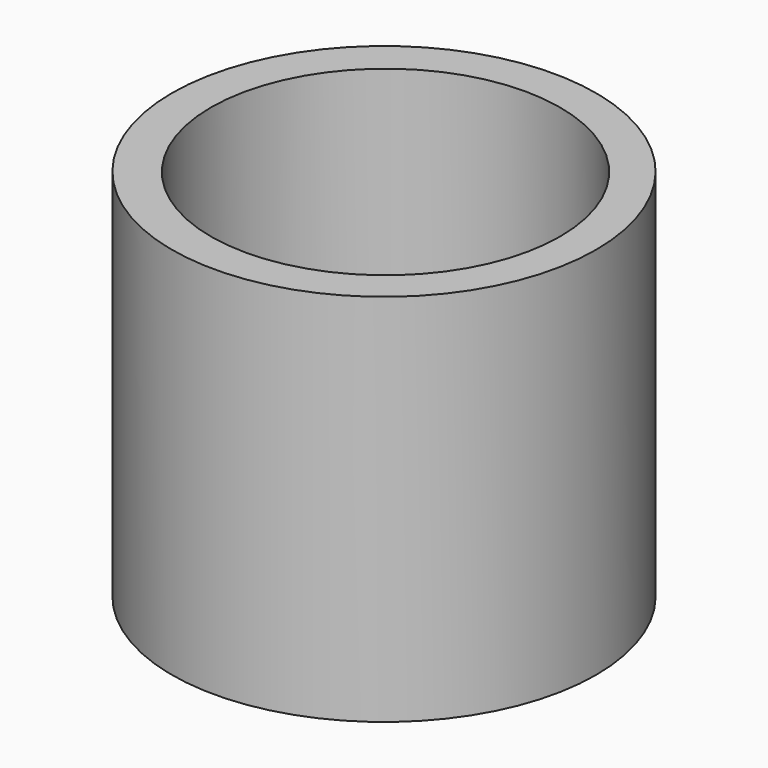
from build123d import *

# Parameters (mm, degrees)
SKETCH002_R  = 8.5
PAD001_DEPTH = 15
SKETCH003_R  = 7
POCKET_DEPTH = 28
CHAMFER_SIZE = 0.5


with BuildPart() as part:
    # Sketch002 (on Face1 of ReferenceFillet) → Pad001 (new body)
    with BuildSketch(Plane(origin=(0, 0, 0), x_dir=(1, 0, 0), z_dir=(0, 0, -1))):
        with Locations((-24.532044, 0)):
            Circle(SKETCH002_R)
    extrude(amount=PAD001_DEPTH)

    # Sketch003 (on Face3 of Pad001) → Pocket (cut)
    with BuildSketch(Plane(origin=(0, 0, -15), x_dir=(1, 0, 0), z_dir=(0, 0, -1))):
        with Locations((-24.47134, 0)):
            Circle(SKETCH003_R)
    extrude(amount=-POCKET_DEPTH, mode=Mode.SUBTRACT)

    # Chamfer
    chamfer_edges = [part.edges().sort_by_distance(p)[0] for p in [
        (-31.47134, 0, -15),
    ]]
    chamfer(chamfer_edges, length=CHAMFER_SIZE)


solid = part.part
